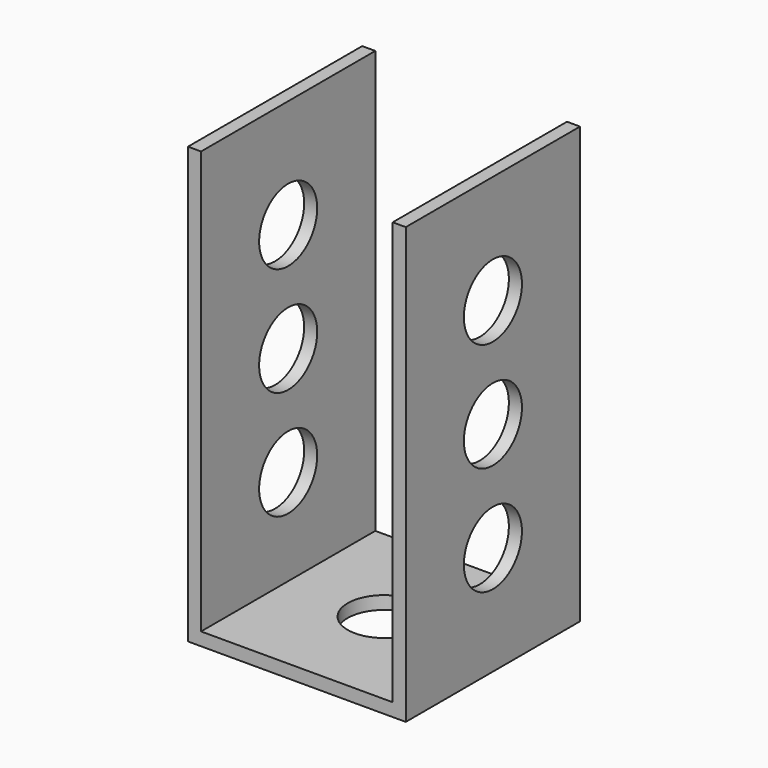
from build123d import *

# Parameters (mm, degrees)
F0_W     = 2.286
F0_H     = 38.1
F0_W_2   = 33.528
F0_R     = 6.35
F1_DEPTH = 2.286
F2_W     = 2.286
F2_H     = 38.1
F3_DEPTH = 73.914
F4_R     = 6.35
F5_DEPTH = 38.101


with BuildPart() as f1:
    # F0 (on Top) → F1 (new body)
    with BuildSketch(Plane.XY):
        with Locations((-14.750999, -1.450934)):
            Rectangle(F0_W, F0_H)
        with Locations((3.156001, -1.450934)):
            Rectangle(F0_W_2, F0_H)
        with Locations((3.156001, -1.450934)):
            Circle(F0_R, mode=Mode.SUBTRACT)
        with Locations((21.063001, -1.450934)):
            Rectangle(F0_W, F0_H)
    extrude(amount=F1_DEPTH)

    # F2 (on face) → F3 (join)
    with BuildSketch(Plane.XY.offset(2.286)):
        with Locations((-14.750999, -1.450934)):
            Rectangle(F2_W, F2_H)
        with Locations((21.063001, -1.450934)):
            Rectangle(F2_W, F2_H)
    extrude(amount=F3_DEPTH)

    # F4 (on face) → F5 (cut, through all)
    with BuildSketch(Plane.YZ.offset(22.206001)):
        with Locations((-1.450934, 57.15)):
            Circle(F4_R)
        with Locations((-1.450934, 38.1)):
            Circle(F4_R)
        with Locations((-1.450934, 19.05)):
            Circle(F4_R)
    extrude(amount=-F5_DEPTH, mode=Mode.SUBTRACT)


solid = f1.part
